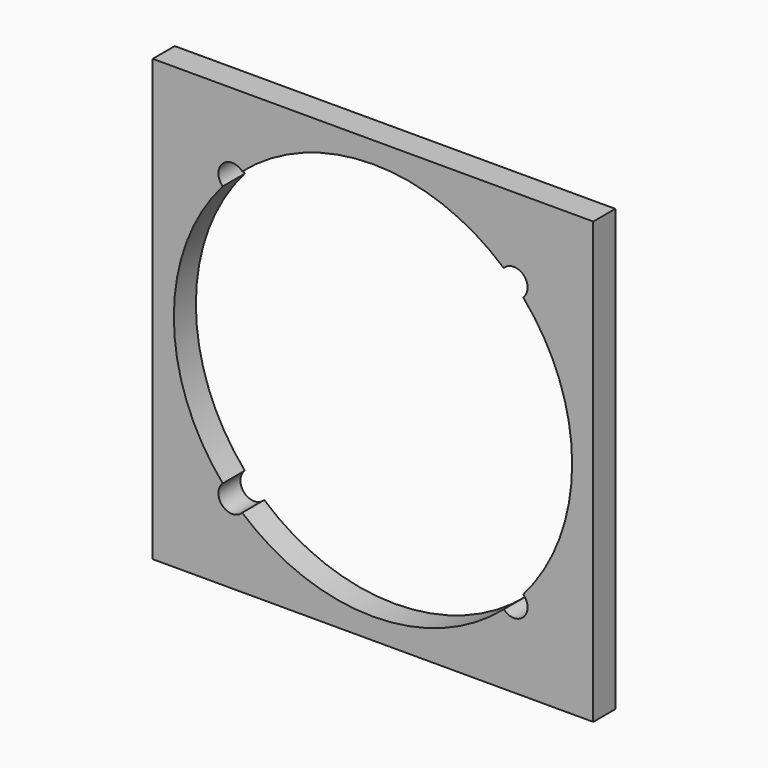
from build123d import *

# Parameters (mm, degrees)
F0_W     = 304.8
F0_H     = 304.8
F1_DEPTH = 19.05


with BuildPart() as f1:
    # F0 (on Front) → F1 (new body)
    with BuildSketch(Plane.XZ):
        Rectangle(F0_W, F0_H)
        with BuildLine():
            ThreePointArc((103.934164, 90.471828), (129.052451, 48.300383), (137.795, 0))
            ThreePointArc((137.795, 0), (129.052451, -48.300383), (103.934164, -90.471828))
            ThreePointArc((103.934164, -90.471828), (106.171417, -93.639168), (106.960779, -97.435779))
            ThreePointArc((106.960779, -97.435779), (100.928198, -106.297417), (90.471828, -103.934164))
            ThreePointArc((90.471828, -103.934164), (0, -137.795), (-90.471828, -103.934164))
            ThreePointArc((-90.471828, -103.934164), (-104.170971, -104.170971), (-103.934164, -90.471828))
            ThreePointArc((-103.934164, -90.471828), (-137.795, 0), (-103.934164, 90.471828))
            ThreePointArc((-103.934164, 90.471828), (-104.170971, 104.170971), (-90.471828, 103.934164))
            ThreePointArc((-90.471828, 103.934164), (0, 137.795), (90.471828, 103.934164))
            ThreePointArc((90.471828, 103.934164), (100.928198, 106.297417), (106.960779, 97.435779))
            ThreePointArc((106.960779, 97.435779), (106.171417, 93.639168), (103.934164, 90.471828))
        make_face(mode=Mode.SUBTRACT)
    extrude(amount=F1_DEPTH)


solid = f1.part
